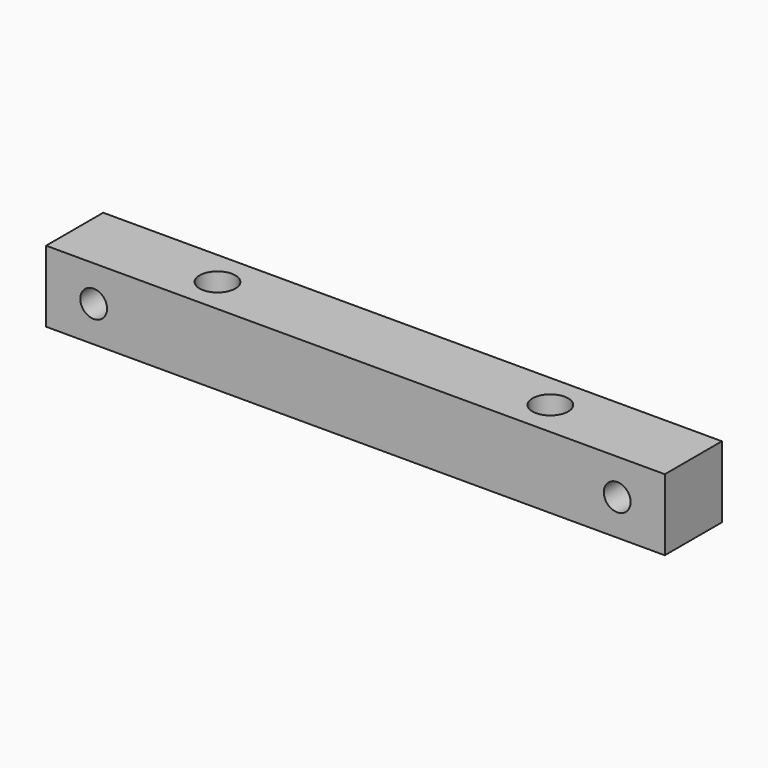
from build123d import *

# Parameters (mm, degrees)
F0_W     = 82.55
F0_H     = 9.525
F1_DEPTH = 4.7625
F2_R     = 1.7859375
F3_DEPTH = 9.525
F4_R     = 1.7859375
F5_DEPTH = 9.525
F7_R     = 2.3876
F8_DEPTH = 25.4
F6_R     = 2.3876
F9_DEPTH = 25.4


with BuildPart() as f1:
    # F0 (on Front) → F1 (new body, symmetric)
    with BuildSketch(Plane.XZ):
        Rectangle(F0_W, F0_H)
    extrude(amount=F1_DEPTH, both=True)

    # F2 (on face) → F3 (cut)
    with BuildSketch(Plane.XZ.offset(4.7625)):
        with Locations((-34.925, 0)):
            Circle(F2_R)
    extrude(amount=-F3_DEPTH, mode=Mode.SUBTRACT)

    # F4 (on face) → F5 (cut)
    with BuildSketch(Plane.XZ.offset(4.7625)):
        with Locations((34.925, 0)):
            Circle(F4_R)
    extrude(amount=-F5_DEPTH, mode=Mode.SUBTRACT)

    # F7 (on face) → F8 (cut)
    with BuildSketch(Plane.XY.offset(4.7625)):
        with Locations((22.1972933818, 0)):
            Circle(F7_R)
    extrude(amount=-F8_DEPTH, mode=Mode.SUBTRACT)

    # F6 (on face) → F9 (cut)
    with BuildSketch(Plane.XY.offset(4.7625)):
        with Locations((-22.2145933658, 0)):
            Circle(F6_R)
    extrude(amount=-F9_DEPTH, mode=Mode.SUBTRACT)


solid = f1.part
